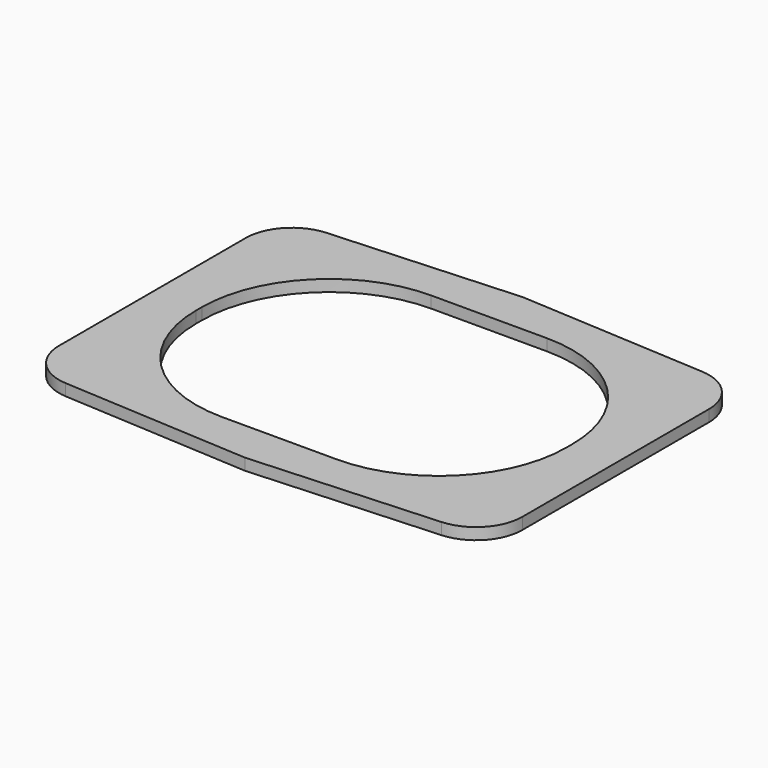
from build123d import *

# Parameters (mm, degrees)
F1_DEPTH = 1.5


with BuildPart() as f1:
    # F0 (on Top) → F1 (new body)
    with BuildSketch(Plane.XY):
        with BuildLine():
            ThreePointArc((24.345579, -21.095447), (28.363111, -19.224056), (30, -15.105408))
            Line((30, -15.105408), (30, 15.105408))
            ThreePointArc((30, 15.105408), (28.363111, 19.224056), (24.345579, 21.095447))
            Line((24.345579, 21.095447), (0, 22.5))
            Line((0, 22.5), (-24.345579, 21.095447))
            ThreePointArc((-24.345579, 21.095447), (-28.363111, 19.224056), (-30, 15.105408))
            Line((-30, 15.105408), (-30, -15.105408))
            ThreePointArc((-30, -15.105408), (-28.363111, -19.224056), (-24.345579, -21.095447))
            Line((-24.345579, -21.095447), (0, -22.5))
            Line((0, -22.5), (24.345579, -21.095447))
        make_face()
        with BuildLine():
            ThreePointArc((24, -0.5), (19.167262, -12.167262), (7.5, -17))
            Line((7.5, -17), (-7.4, -17))
            ThreePointArc((-7.4, -17), (-19.137973, -12.137973), (-24, -0.4))
            Line((-24, -0.4), (-24, 0.5))
            ThreePointArc((-24, 0.5), (-19.167262, 12.167262), (-7.5, 17))
            Line((-7.5, 17), (7.5, 17))
            ThreePointArc((7.5, 17), (19.167262, 12.167262), (24, 0.5))
            Line((24, 0.5), (24, -0.5))
        make_face(mode=Mode.SUBTRACT)
    extrude(amount=F1_DEPTH)


solid = f1.part
